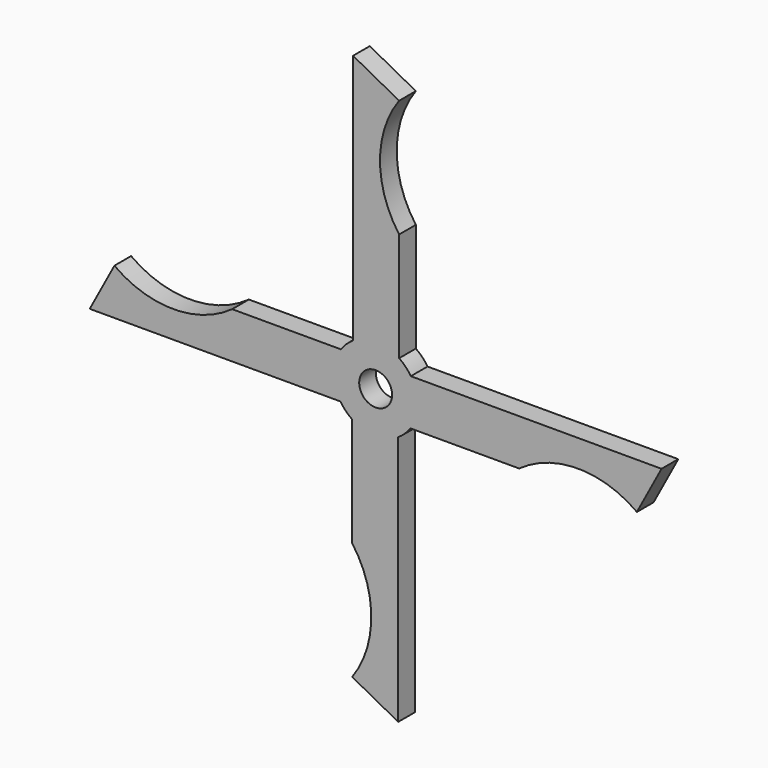
from build123d import *

# Parameters (mm, degrees)
F0_R     = 5
F1_DEPTH = 6.35


with BuildPart() as f1:
    # F0 (on Front) → F1 (new body)
    with BuildSketch(Plane.XZ):
        with BuildLine():
            ThreePointArc((-10.686912, -6.86148), (-12.698964, 0.162204), (-10.50817, 7.132205))
            Line((-10.50817, 7.132205), (-43.614347, 7.132205))
            ThreePointArc((-43.614347, 7.132205), (-61.505536, 1.328372), (-79.396725, 7.132205))
            Line((-79.396725, 7.132205), (-86.886912, -6.86148))
            Line((-86.886912, -6.86148), (-10.686912, -6.86148))
        make_face()
        with BuildLine():
            Line((6.86148, -86.886912), (6.86148, -10.686912))
            ThreePointArc((6.86148, -10.686912), (-0.162204, -12.698964), (-7.132205, -10.50817))
            Line((-7.132205, -10.50817), (-7.132205, -43.614347))
            ThreePointArc((-7.132205, -43.614347), (-1.328372, -61.505536), (-7.132205, -79.396725))
            Line((-7.132205, -79.396725), (6.86148, -86.886912))
        make_face()
        with BuildLine():
            ThreePointArc((10.686912, 6.86148), (12.18634, 3.575347), (12.7, 0))
            ThreePointArc((12.7, 0), (12.139682, -3.730699), (10.50817, -7.132205))
            Line((10.50817, -7.132205), (43.614347, -7.132205))
            ThreePointArc((43.614347, -7.132205), (61.505536, -1.328372), (79.396725, -7.132205))
            Line((79.396725, -7.132205), (86.886912, 6.86148))
            Line((86.886912, 6.86148), (10.686912, 6.86148))
        make_face()
        with BuildLine():
            ThreePointArc((10.50817, -7.132205), (12.139682, -3.730699), (12.7, 0))
            ThreePointArc((12.7, 0), (12.18634, 3.575347), (10.686912, 6.86148))
            ThreePointArc((10.686912, 6.86148), (9.094219, 8.864828), (7.132205, 10.50817))
            ThreePointArc((7.132205, 10.50817), (0.162204, 12.698964), (-6.86148, 10.686912))
            ThreePointArc((-6.86148, 10.686912), (-8.864828, 9.094219), (-10.50817, 7.132205))
            ThreePointArc((-10.50817, 7.132205), (-12.698964, 0.162204), (-10.686912, -6.86148))
            ThreePointArc((-10.686912, -6.86148), (-9.094219, -8.864828), (-7.132205, -10.50817))
            ThreePointArc((-7.132205, -10.50817), (-0.162204, -12.698964), (6.86148, -10.686912))
            ThreePointArc((6.86148, -10.686912), (8.864828, -9.094219), (10.50817, -7.132205))
        make_face()
        Circle(F0_R, mode=Mode.SUBTRACT)
        with BuildLine():
            ThreePointArc((-6.86148, 10.686912), (0.162204, 12.698964), (7.132205, 10.50817))
            Line((7.132205, 10.50817), (7.132205, 43.614347))
            ThreePointArc((7.132205, 43.614347), (1.328372, 61.505536), (7.132205, 79.396725))
            Line((7.132205, 79.396725), (-6.86148, 86.886912))
            Line((-6.86148, 86.886912), (-6.86148, 10.686912))
        make_face()
    extrude(amount=F1_DEPTH)


solid = f1.part
